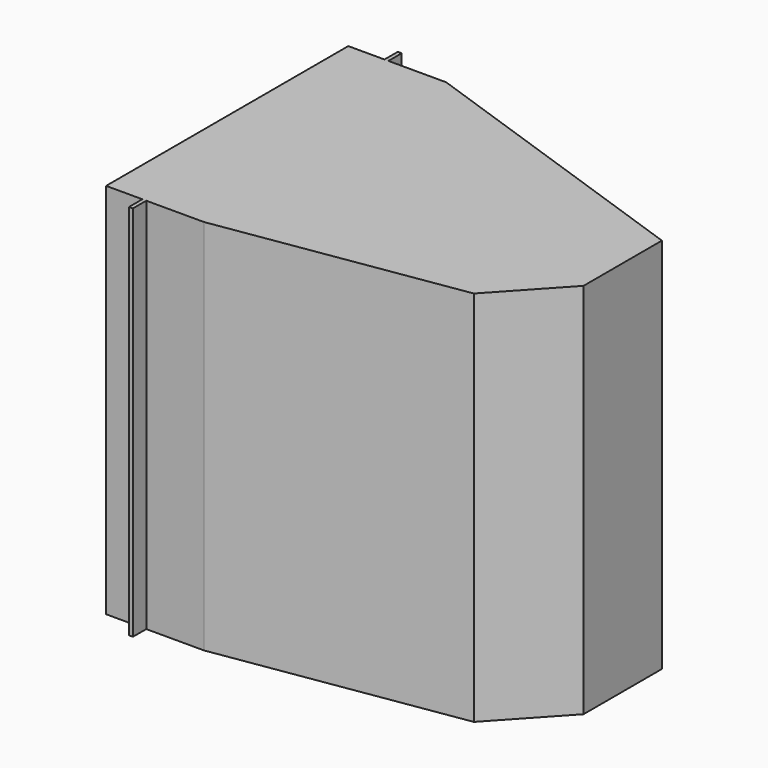
from build123d import *

# Parameters (mm, degrees)
PAD_DEPTH    = 385
SKETCH001_W  = 241
SKETCH001_H  = 320
POCKET_DEPTH = 3


with BuildPart() as part:
    # Sketch → Pad (new body)
    with BuildSketch(Plane.XY):
        Polygon((0, 0), (0, 309), (37, 309), (37, 326), (41, 326), (41, 309), (100, 309), (405, 203), (405, 103), (345, 38), (100, 0), (41, 0), (41, -17), (37, -17), (37, 0), align=None)
    extrude(amount=PAD_DEPTH)

    # Sketch001 (on Face1 of Pad) → Pocket (cut)
    with BuildSketch(Plane(origin=(0, 0, 0), x_dir=(0, -1, 0), z_dir=(-1, 0, 0))):
        with Locations((-154.5, 192.5)):
            Rectangle(SKETCH001_W, SKETCH001_H)
    extrude(amount=-POCKET_DEPTH, mode=Mode.SUBTRACT)


solid = part.part
